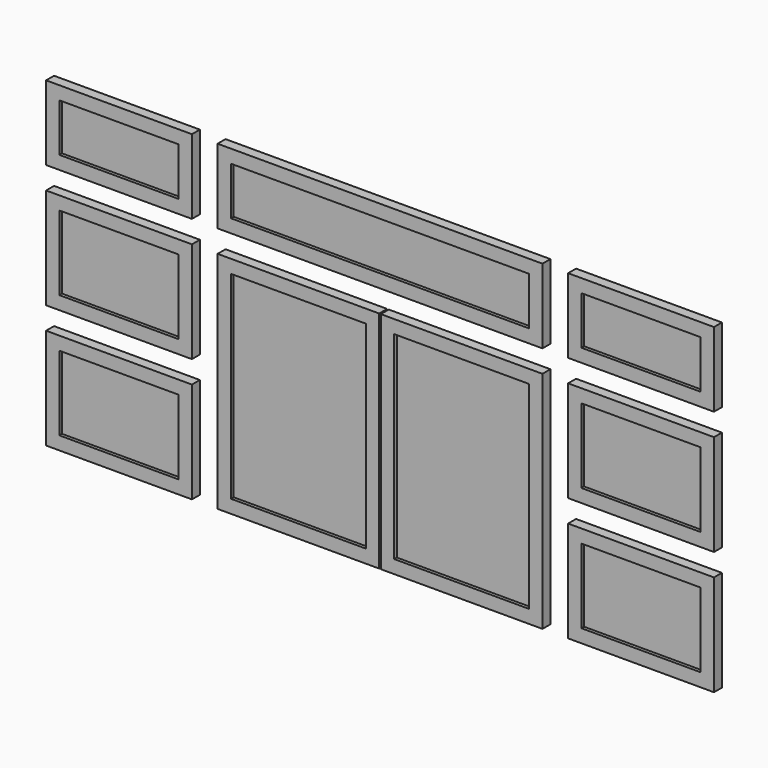
from build123d import *

# Parameters (mm, degrees)
F0_W     = 279.4
F0_H     = 142.875
F0_W_2   = 622.3
F0_H_2   = 193.675
F0_W_3   = 309.5625
F0_H_3   = 430.2125
F1_DEPTH = 19.05
F2_W     = 228.6
F2_H     = 92.075
F2_H_2   = 142.875
F2_W_2   = 258.7625
F2_H_3   = 379.4125
F2_W_3   = 571.5
F3_DEPTH = 6.35


with BuildPart() as f1:
    # F0 (on Front) → F1 (new body)
    with BuildSketch(Plane.XZ):
        with Locations((-523.875, 217.4875)):
            Rectangle(F0_W, F0_H)
        with Locations((-23.8125, 217.4875)):
            Rectangle(F0_W_2, F0_H)
        with Locations((476.25, 217.4875)):
            Rectangle(F0_W, F0_H)
        with Locations((476.25, 6.35)):
            Rectangle(F0_W, F0_H_2)
        with Locations((476.25, -230.1875)):
            Rectangle(F0_W, F0_H_2)
        with Locations((132.55625, -111.91875)):
            Rectangle(F0_W_3, F0_H_3)
        with Locations((-180.18125, -111.91875)):
            Rectangle(F0_W_3, F0_H_3)
        with Locations((-523.875, 6.35)):
            Rectangle(F0_W, F0_H_2)
        with Locations((-523.875, -230.1875)):
            Rectangle(F0_W, F0_H_2)
    extrude(amount=F1_DEPTH)

    # F2 (on face) → F3 (cut)
    with BuildSketch(Plane.XZ.offset(19.05)):
        with Locations((-523.875, 217.4875)):
            Rectangle(F2_W, F2_H)
        with Locations((-523.875, 6.35)):
            Rectangle(F2_W, F2_H_2)
        with Locations((-523.875, -230.1875)):
            Rectangle(F2_W, F2_H_2)
        with Locations((-180.18125, -111.91875)):
            Rectangle(F2_W_2, F2_H_3)
        with Locations((-23.8125, 217.4875)):
            Rectangle(F2_W_3, F2_H)
        with Locations((132.55625, -111.91875)):
            Rectangle(F2_W_2, F2_H_3)
        with Locations((476.25, 217.4875)):
            Rectangle(F2_W, F2_H)
        with Locations((476.25, 6.35)):
            Rectangle(F2_W, F2_H_2)
        with Locations((476.25, -230.1875)):
            Rectangle(F2_W, F2_H_2)
    extrude(amount=-F3_DEPTH, mode=Mode.SUBTRACT)


solid = f1.part
